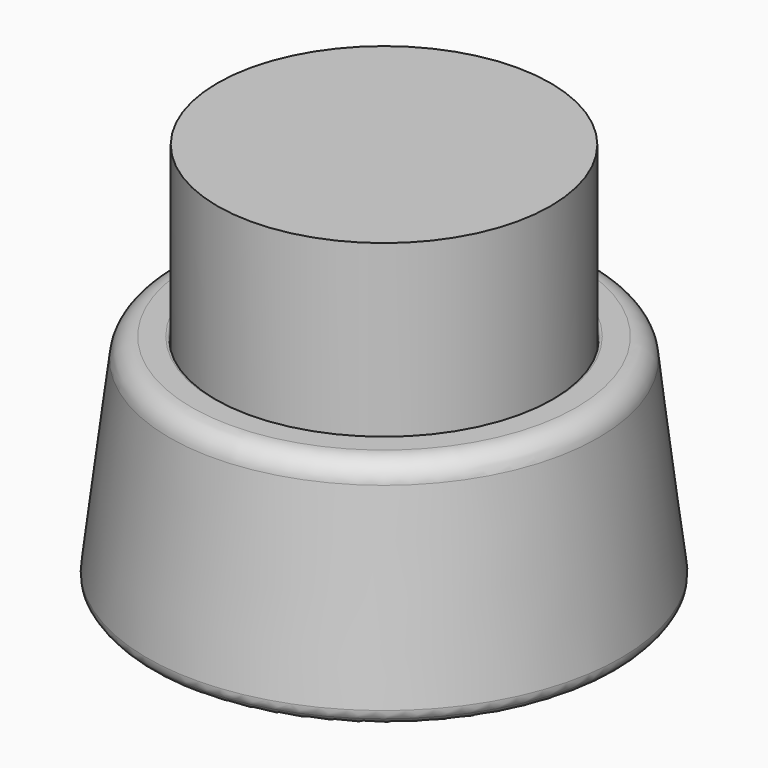
from build123d import *

# Parameters (mm, degrees)
F2_SIZE  = 2
F3_R     = 0.5
F4_R     = 2
F5_R     = 4
F7_START = 20
F6_R     = 30
F7_DEPTH = 50.4
F8_R     = 1
F9_R     = 0.5


with BuildPart() as f1:
    # F0 (on Front) → F1 (revolve)
    with BuildSketch(Plane.XZ):
        Polygon((0, 20), (0, 0), (43, 0), (38.2, 40), (30.2, 40), (30.2, 20), align=None)
    revolve(axis=Axis((0, 0, 10), (0, 0, 1)))

    # F2
    f2_edges = [f1.edges().sort_by_distance(p)[0] for p in [
        (-43, 0, 0),
    ]]
    chamfer(f2_edges, length=F2_SIZE)

    # F3
    f3_edges = [f1.edges().sort_by_distance(p)[0] for p in [
        (-30.2, 0, 20),
    ]]
    fillet(f3_edges, radius=F3_R)

    # F4
    f4_edges = [f1.edges().sort_by_distance(p)[0] for p in [
        (-42.76171, 0, 1.985754),
        (-41, 0, 0),
    ]]
    fillet(f4_edges, radius=F4_R)

    # F5
    f5_edges = [f1.edges().sort_by_distance(p)[0] for p in [
        (-38.2, 0, 40),
    ]]
    fillet(f5_edges, radius=F5_R)

    # F9
    f9_edges = [f1.edges().sort_by_distance(p)[0] for p in [
        (-30.2, 0, 40),
    ]]
    fillet(f9_edges, radius=F9_R)


with BuildPart() as f7:
    # F6 (on Top) → F7 (new body)
    with BuildSketch(Plane.XY.offset(F7_START)):
        Circle(F6_R)
    extrude(amount=F7_DEPTH)

    # F8
    f8_edges = [f7.edges().sort_by_distance(p)[0] for p in [
        (-30, 0, 20),
    ]]
    fillet(f8_edges, radius=F8_R)


solid = Compound([f1.part, f7.part])
